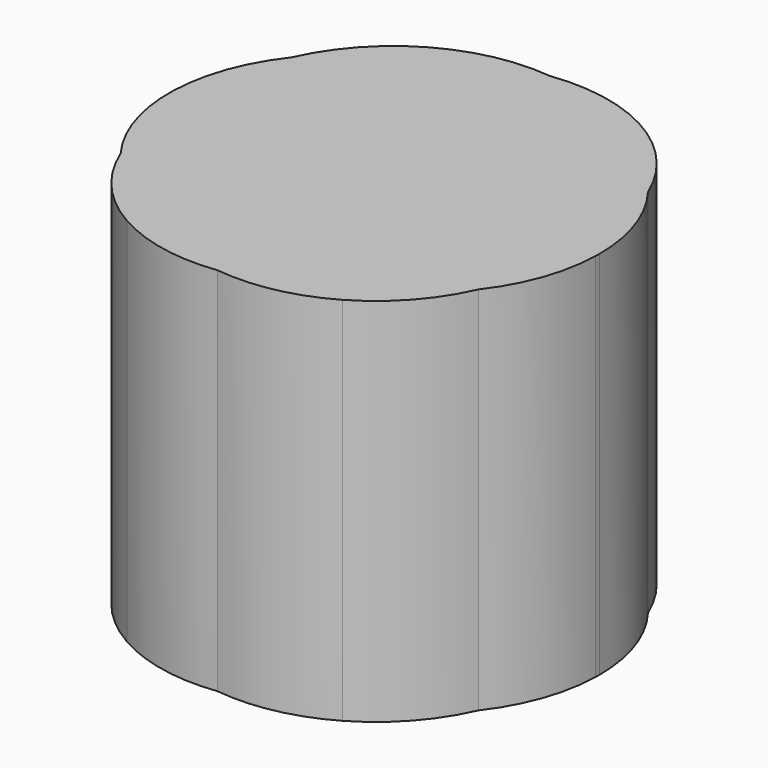
from build123d import *

# Parameters (mm, degrees)
F1_DEPTH = 6


with BuildPart() as f1:
    # F0 (on Top) → F1 (new body)
    with BuildSketch(Plane.XY):
        with BuildLine():
            ThreePointArc((1.8973233508, 1.0666051117), (1.0588867343, 1.8135272069), (-0.005583815, 2.1709779391))
            ThreePointArc((-0.005583815, 2.1709779391), (-1.0389548617, 1.8249950782), (-1.8619798916, 1.1107194588))
            ThreePointArc((-1.8619798916, 1.1107194588), (-2.1000901385, 0.0125561815), (-1.887280493, -1.090789244))
            ThreePointArc((-1.887280493, -1.090789244), (-1.0429983237, -1.8228679145), (0.0203406306, -2.1664691802))
            ThreePointArc((0.0203406306, -2.1664691802), (1.0412894646, -1.8236634498), (1.8573263997, -1.1208576368))
            ThreePointArc((1.8573263997, -1.1208576368), (2.038872301, -0.5632237434), (2.1002855998, 0.0199939519))
            ThreePointArc((2.1002855998, 0.0199939519), (2.0490767616, 0.5530484975), (1.8973233508, 1.0666051117))
        make_face()
        with BuildLine():
            ThreePointArc((-0.005583815, 2.1709779391), (-0.5902408798, 2.1811969924), (-1.1642709913, 2.0697620621))
            ThreePointArc((-1.1642709913, 2.0697620621), (-1.5644851841, 1.6276052627), (-1.8619798916, 1.1107194588))
            ThreePointArc((-1.8619798916, 1.1107194588), (-1.0389548617, 1.8249950782), (-0.005583815, 2.1709779391))
        make_face()
        with BuildLine():
            ThreePointArc((1.2254840668, 2.0531222957), (0.6904787067, 2.450500715), (0.0767181369, 2.7101895796))
            ThreePointArc((0.0767181369, 2.7101895796), (-0.5843437882, 2.4685852693), (-1.1642709913, 2.0697620621))
            ThreePointArc((-1.1642709913, 2.0697620621), (-0.5902408798, 2.1811969924), (-0.005583815, 2.1709779391))
            ThreePointArc((-0.005583815, 2.1709779391), (0.6165382251, 2.1808664854), (1.2254840668, 2.0531222957))
        make_face()
        with BuildLine():
            ThreePointArc((0.0767181369, 2.7101895796), (-0.739408057, 2.819712583), (-1.5521012699, 2.6870966167))
            ThreePointArc((-1.5521012699, 2.6870966167), (-2.0648276585, 2.0630888944), (-2.3781173595, 1.31869414))
            ThreePointArc((-2.3781173595, 1.31869414), (-1.8198590259, 1.7728783139), (-1.1642709913, 2.0697620621))
            ThreePointArc((-1.1642709913, 2.0697620621), (-0.5843437882, 2.4685852693), (0.0767181369, 2.7101895796))
        make_face()
        with BuildLine():
            ThreePointArc((-1.1642709913, 2.0697620621), (-1.8198590259, 1.7728783139), (-2.3781173595, 1.31869414))
            ThreePointArc((-2.3781173595, 1.31869414), (-2.4675701182, 0.6431282617), (-2.3911766581, -0.0340386978))
            ThreePointArc((-2.3911766581, -0.0340386978), (-2.1918687447, 0.5685227429), (-1.8619798916, 1.1107194588))
            ThreePointArc((-1.8619798916, 1.1107194588), (-1.5644851841, 1.6276052627), (-1.1642709913, 2.0697620621))
        make_face()
        with BuildLine():
            ThreePointArc((-1.8619798916, 1.1107194588), (-2.1918687447, 0.5685227429), (-2.3911766581, -0.0340386978))
            ThreePointArc((-2.3911766581, -0.0340386978), (-2.1950769, -0.5890444341), (-1.887280493, -1.090789244))
            ThreePointArc((-1.887280493, -1.090789244), (-2.1000901385, 0.0125561815), (-1.8619798916, 1.1107194588))
        make_face()
        with BuildLine():
            ThreePointArc((-2.3781173595, 1.31869414), (-2.8167952616, 0.7101612068), (-3.0781623915, 0.0069984548))
            ThreePointArc((-3.0781623915, 0.0069984548), (-2.8091128769, -0.7177567759), (-2.352128639, -1.3413136635))
            ThreePointArc((-2.352128639, -1.3413136635), (-2.4490500667, -0.6899880247), (-2.3911766581, -0.0340386978))
            ThreePointArc((-2.3911766581, -0.0340386978), (-2.4675701182, 0.6431282617), (-2.3781173595, 1.31869414))
        make_face()
        with BuildLine():
            ThreePointArc((-1.5521012699, 2.6870966167), (-2.2966660757, 2.3199385917), (-2.9008495072, 1.7506020071))
            ThreePointArc((-2.9008495072, 1.7506020071), (-3.1294418909, 0.8930307855), (-3.0781623915, 0.0069984548))
            ThreePointArc((-3.0781623915, 0.0069984548), (-2.8167952616, 0.7101612068), (-2.3781173595, 1.31869414))
            ThreePointArc((-2.3781173595, 1.31869414), (-2.0648276585, 2.0630888944), (-1.5521012699, 2.6870966167))
        make_face()
        with BuildLine():
            ThreePointArc((1.5893790918, 2.6352836652), (0.8408625527, 3.1467868797), (-0.0318499268, 3.3923178874))
            ThreePointArc((-0.0318499268, 3.3923178874), (-0.8459741382, 3.1561123524), (-1.5521012699, 2.6870966167))
            ThreePointArc((-1.5521012699, 2.6870966167), (-0.739408057, 2.819712583), (0.0767181369, 2.7101895796))
            ThreePointArc((0.0767181369, 2.7101895796), (0.8382093308, 2.7769528833), (1.5893790918, 2.6352836652))
        make_face()
        with BuildLine():
            ThreePointArc((2.9193048787, 1.687267141), (2.4106234404, 2.4924162866), (1.6614974205, 3.0804912468))
            ThreePointArc((1.6614974205, 3.0804912468), (0.839387863, 3.3697978552), (-0.0318499268, 3.3923178874))
            ThreePointArc((-0.0318499268, 3.3923178874), (0.8408625527, 3.1467868797), (1.5893790918, 2.6352836652))
            ThreePointArc((1.5893790918, 2.6352836652), (2.3249996844, 2.2603976164), (2.9193048787, 1.687267141))
        make_face()
        with BuildLine():
            ThreePointArc((-0.0318499268, 3.3923178874), (-0.9025110684, 3.3534434902), (-1.7190434975, 3.0487521142))
            ThreePointArc((-1.7190434975, 3.0487521142), (-2.414314987, 2.4946917294), (-2.9008495072, 1.7506020071))
            ThreePointArc((-2.9008495072, 1.7506020071), (-2.2966660757, 2.3199385917), (-1.5521012699, 2.6870966167))
            ThreePointArc((-1.5521012699, 2.6870966167), (-0.8459741382, 3.1561123524), (-0.0318499268, 3.3923178874))
        make_face()
        with BuildLine():
            ThreePointArc((1.8973233508, 1.0666051117), (1.6145801233, 1.5960779783), (1.2254840668, 2.0531222957))
            ThreePointArc((1.2254840668, 2.0531222957), (0.6165382251, 2.1808664854), (-0.005583815, 2.1709779391))
            ThreePointArc((-0.005583815, 2.1709779391), (1.0588867343, 1.8135272069), (1.8973233508, 1.0666051117))
        make_face()
        with BuildLine():
            ThreePointArc((2.3580216147, 1.3446741637), (2.0618651, 2.042486798), (1.5893790918, 2.6352836652))
            ThreePointArc((1.5893790918, 2.6352836652), (0.8382093308, 2.7769528833), (0.0767181369, 2.7101895796))
            ThreePointArc((0.0767181369, 2.7101895796), (0.6904787067, 2.450500715), (1.2254840668, 2.0531222957))
            ThreePointArc((1.2254840668, 2.0531222957), (1.8346212871, 1.7674284762), (2.3580216147, 1.3446741637))
        make_face()
        with BuildLine():
            ThreePointArc((3.132299411, 0.6160982888), (3.0785345893, 1.1621681975), (2.9193048787, 1.687267141))
            ThreePointArc((2.9193048787, 1.687267141), (2.3249996844, 2.2603976164), (1.5893790918, 2.6352836652))
            ThreePointArc((1.5893790918, 2.6352836652), (2.0618651, 2.042486798), (2.3580216147, 1.3446741637))
            ThreePointArc((2.3580216147, 1.3446741637), (2.8033879252, 0.7424702765), (3.073177752, 0.0437470684))
            ThreePointArc((3.073177752, 0.0437470684), (3.1174797781, 0.3283999702), (3.132299411, 0.6160982888))
        make_face()
        with BuildLine():
            ThreePointArc((2.9114065493, -1.7367297688), (3.3355847665, -0.9642066281), (3.4986248701, -0.0981020804))
            ThreePointArc((3.4986248701, -0.0981020804), (3.499449935, -0.058865091), (3.4997249747, -0.0196203918))
            ThreePointArc((3.4997249747, -0.0196203918), (3.3506515798, 0.8818163139), (2.9193048787, 1.687267141))
            ThreePointArc((2.9193048787, 1.687267141), (3.0785345893, 1.1621681975), (3.132299411, 0.6160982888))
            ThreePointArc((3.132299411, 0.6160982888), (3.1174797781, 0.3283999702), (3.073177752, 0.0437470684))
            ThreePointArc((3.073177752, 0.0437470684), (3.1305048937, -0.2790773714), (3.149701683, -0.6063899182))
            ThreePointArc((3.149701683, -0.6063899182), (3.0894802895, -1.1839824971), (2.9114065493, -1.7367297688))
        make_face()
        with BuildLine():
            ThreePointArc((2.3638389968, -1.3107766193), (2.8127584052, -0.6828717562), (3.073177752, 0.0437470684))
            ThreePointArc((3.073177752, 0.0437470684), (2.8033879252, 0.7424702765), (2.3580216147, 1.3446741637))
            ThreePointArc((2.3580216147, 1.3446741637), (2.431540361, 0.9804761247), (2.4561912927, 0.6097504185))
            ThreePointArc((2.4561912927, 0.6097504185), (2.439034886, 0.3002644976), (2.3877759104, -0.0054288045))
            ThreePointArc((2.3877759104, -0.0054288045), (2.4369622669, -0.3050226541), (2.4534222262, -0.6081807681))
            ThreePointArc((2.4534222262, -0.6081807681), (2.4309361288, -0.9623227189), (2.3638389968, -1.3107766193))
        make_face()
        with BuildLine():
            ThreePointArc((2.4561912927, 0.6097504185), (2.431540361, 0.9804761247), (2.3580216147, 1.3446741637))
            ThreePointArc((2.3580216147, 1.3446741637), (1.8346212871, 1.7674284762), (1.2254840668, 2.0531222957))
            ThreePointArc((1.2254840668, 2.0531222957), (1.6145801233, 1.5960779783), (1.8973233508, 1.0666051117))
            ThreePointArc((1.8973233508, 1.0666051117), (2.1996094571, 0.5566928668), (2.3877759104, -0.0054288045))
            ThreePointArc((2.3877759104, -0.0054288045), (2.439034886, 0.3002644976), (2.4561912927, 0.6097504185))
        make_face()
        with BuildLine():
            ThreePointArc((1.8573263997, -1.1208576368), (2.1848226104, -0.5927568204), (2.3877759104, -0.0054288045))
            ThreePointArc((2.3877759104, -0.0054288045), (2.1996094571, 0.5566928668), (1.8973233508, 1.0666051117))
            ThreePointArc((1.8973233508, 1.0666051117), (2.0490767616, 0.5530484975), (2.1002855998, 0.0199939519))
            ThreePointArc((2.1002855998, 0.0199939519), (2.038872301, -0.5632237434), (1.8573263997, -1.1208576368))
        make_face()
        with BuildLine():
            ThreePointArc((1.1846862806, -2.051004376), (1.8210042954, -1.7553480562), (2.3638389968, -1.3107766193))
            ThreePointArc((2.3638389968, -1.3107766193), (2.4309361288, -0.9623227189), (2.4534222262, -0.6081807681))
            ThreePointArc((2.4534222262, -0.6081807681), (2.4369622669, -0.3050226541), (2.3877759104, -0.0054288045))
            ThreePointArc((2.3877759104, -0.0054288045), (2.1848226104, -0.5927568204), (1.8573263997, -1.1208576368))
            ThreePointArc((1.8573263997, -1.1208576368), (1.5691826547, -1.6207699415), (1.1846862806, -2.051004376))
        make_face()
        with BuildLine():
            ThreePointArc((1.5174181922, -2.6975632221), (2.2887744198, -2.3250318217), (2.9114065493, -1.7367297688))
            ThreePointArc((2.9114065493, -1.7367297688), (3.0894802895, -1.1839824971), (3.149701683, -0.6063899182))
            ThreePointArc((3.149701683, -0.6063899182), (3.1305048937, -0.2790773714), (3.073177752, 0.0437470684))
            ThreePointArc((3.073177752, 0.0437470684), (2.8127584052, -0.6828717562), (2.3638389968, -1.3107766193))
            ThreePointArc((2.3638389968, -1.3107766193), (2.0434237412, -2.0669106124), (1.5174181922, -2.6975632221))
        make_face()
        with BuildLine():
            ThreePointArc((0.0087077242, -3.3855486255), (0.9073754248, -3.3502922484), (1.7485083631, -3.031949621))
            ThreePointArc((1.7485083631, -3.031949621), (2.4331631162, -2.4770017048), (2.9114065493, -1.7367297688))
            ThreePointArc((2.9114065493, -1.7367297688), (2.2887744198, -2.3250318217), (1.5174181922, -2.6975632221))
            ThreePointArc((1.5174181922, -2.6975632221), (0.815159517, -3.1558005332), (0.0087077242, -3.3855486255))
        make_face()
        with BuildLine():
            ThreePointArc((-0.0767075624, -2.7098160195), (0.7212457483, -2.8195376864), (1.5174181922, -2.6975632221))
            ThreePointArc((1.5174181922, -2.6975632221), (2.0434237412, -2.0669106124), (2.3638389968, -1.3107766193))
            ThreePointArc((2.3638389968, -1.3107766193), (1.8210042954, -1.7553480562), (1.1846862806, -2.051004376))
            ThreePointArc((1.1846862806, -2.051004376), (0.5965422532, -2.4618841048), (-0.0767075624, -2.7098160195))
        make_face()
        with BuildLine():
            ThreePointArc((0.0203406306, -2.1664691802), (0.6086120241, -2.1702346669), (1.1846862806, -2.051004376))
            ThreePointArc((1.1846862806, -2.051004376), (1.5691826547, -1.6207699415), (1.8573263997, -1.1208576368))
            ThreePointArc((1.8573263997, -1.1208576368), (1.0412894646, -1.8236634498), (0.0203406306, -2.1664691802))
        make_face()
        with BuildLine():
            ThreePointArc((-1.2334628244, -2.0451536385), (-0.6952497963, -2.4473859053), (-0.0767075624, -2.7098160195))
            ThreePointArc((-0.0767075624, -2.7098160195), (0.5965422532, -2.4618841048), (1.1846862806, -2.051004376))
            ThreePointArc((1.1846862806, -2.051004376), (0.6086120241, -2.1702346669), (0.0203406306, -2.1664691802))
            ThreePointArc((0.0203406306, -2.1664691802), (-0.6134717997, -2.1772339404), (-1.2334628244, -2.0451536385))
        make_face()
        with BuildLine():
            ThreePointArc((-1.575496784, -2.6395182621), (-0.8432138017, -3.1395603915), (0.0087077242, -3.3855486255))
            ThreePointArc((0.0087077242, -3.3855486255), (0.815159517, -3.1558005332), (1.5174181922, -2.6975632221))
            ThreePointArc((1.5174181922, -2.6975632221), (0.7212457483, -2.8195376864), (-0.0767075624, -2.7098160195))
            ThreePointArc((-0.0767075624, -2.7098160195), (-0.8308986708, -2.7769312683), (-1.575496784, -2.6395182621))
        make_face()
        with BuildLine():
            ThreePointArc((-2.352128639, -1.3413136635), (-2.0531471779, -2.0438589967), (-1.575496784, -2.6395182621))
            ThreePointArc((-1.575496784, -2.6395182621), (-0.8308986708, -2.7769312683), (-0.0767075624, -2.7098160195))
            ThreePointArc((-0.0767075624, -2.7098160195), (-0.6952497963, -2.4473859053), (-1.2334628244, -2.0451536385))
            ThreePointArc((-1.2334628244, -2.0451536385), (-1.8349193921, -1.7601839531), (-2.352128639, -1.3413136635))
        make_face()
        with BuildLine():
            ThreePointArc((-2.9436155248, -1.6547919279), (-2.4553910421, -2.450165187), (-1.7328887652, -3.0409038997))
            ThreePointArc((-1.7328887652, -3.0409038997), (-0.890129417, -3.3549154862), (0.0087077242, -3.3855486255))
            ThreePointArc((0.0087077242, -3.3855486255), (-0.8432138017, -3.1395603915), (-1.575496784, -2.6395182621))
            ThreePointArc((-1.575496784, -2.6395182621), (-2.3354184647, -2.2525535644), (-2.9436155248, -1.6547919279))
        make_face()
        with BuildLine():
            ThreePointArc((-1.887280493, -1.090789244), (-1.6101970243, -1.602105892), (-1.2334628244, -2.0451536385))
            ThreePointArc((-1.2334628244, -2.0451536385), (-0.6134717997, -2.1772339404), (0.0203406306, -2.1664691802))
            ThreePointArc((0.0203406306, -2.1664691802), (-1.0429983237, -1.8228679145), (-1.887280493, -1.090789244))
        make_face()
        with BuildLine():
            ThreePointArc((-2.3911766581, -0.0340386978), (-2.4490500667, -0.6899880247), (-2.352128639, -1.3413136635))
            ThreePointArc((-2.352128639, -1.3413136635), (-1.8349193921, -1.7601839531), (-1.2334628244, -2.0451536385))
            ThreePointArc((-1.2334628244, -2.0451536385), (-1.6101970243, -1.602105892), (-1.887280493, -1.090789244))
            ThreePointArc((-1.887280493, -1.090789244), (-2.1950769, -0.5890444341), (-2.3911766581, -0.0340386978))
        make_face()
        with BuildLine():
            ThreePointArc((-3.0781623915, 0.0069984548), (-3.1374451848, -0.8341433621), (-2.9436155248, -1.6547919279))
            ThreePointArc((-2.9436155248, -1.6547919279), (-2.3354184647, -2.2525535644), (-1.575496784, -2.6395182621))
            ThreePointArc((-1.575496784, -2.6395182621), (-2.0531471779, -2.0438589967), (-2.352128639, -1.3413136635))
            ThreePointArc((-2.352128639, -1.3413136635), (-2.8091128769, -0.7177567759), (-3.0781623915, 0.0069984548))
        make_face()
        with BuildLine():
            ThreePointArc((-2.9008495072, 1.7506020071), (-3.3324180324, 0.9733415197), (-3.4985719993, 0.0999698254))
            ThreePointArc((-3.4985719993, 0.0999698254), (-3.3693868687, -0.8243098508), (-2.9436155248, -1.6547919279))
            ThreePointArc((-2.9436155248, -1.6547919279), (-3.1374451848, -0.8341433621), (-3.0781623915, 0.0069984548))
            ThreePointArc((-3.0781623915, 0.0069984548), (-3.1294418909, 0.8930307855), (-2.9008495072, 1.7506020071))
        make_face()
    extrude(amount=F1_DEPTH)


solid = f1.part
